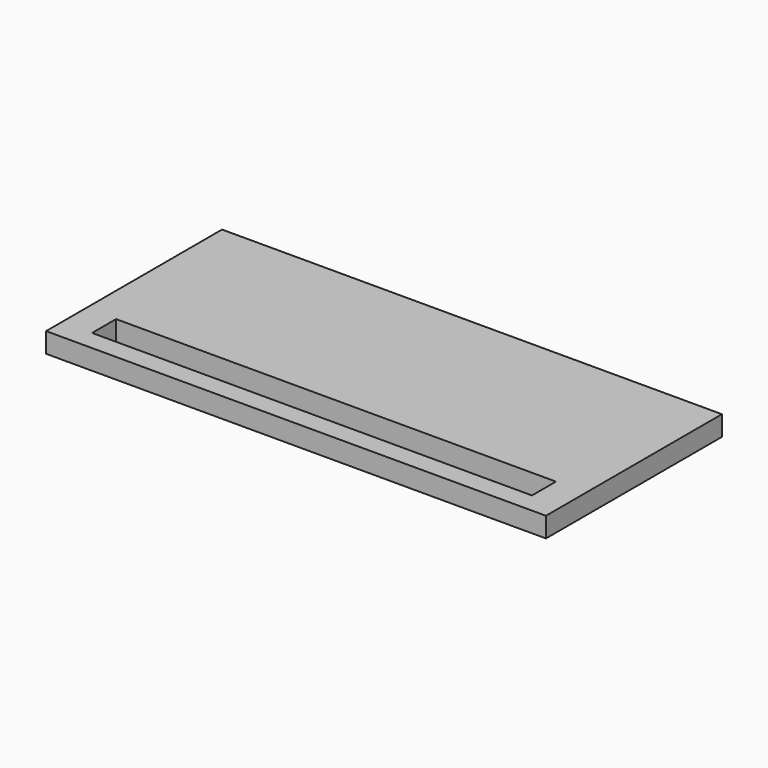
from build123d import *

# Parameters (mm, degrees)
BOX117_W     = 22
BOX117_H     = 1.5
BOX117_DEPTH = 2
BOX003_W     = 25
BOX003_H     = 11
BOX003_DEPTH = 1


with BuildPart() as longledhole:
    # Box117 → Box117 (new body)
    with BuildSketch(Plane(origin=(1.5, 1, 0), x_dir=(1, 0, 0), z_dir=(0, 0, 1))):
        with Locations((11, 0.75)):
            Rectangle(BOX117_W, BOX117_H)
    extrude(amount=BOX117_DEPTH)


with BuildPart() as cut017:
    # Box003 → Box003 (new body)
    with BuildSketch(Plane.XY):
        with Locations((12.5, 5.5)):
            Rectangle(BOX003_W, BOX003_H)
    extrude(amount=BOX003_DEPTH)

    # Cut017: cut LongLedHole
    add(longledhole.part, mode=Mode.SUBTRACT)


solid = cut017.part
